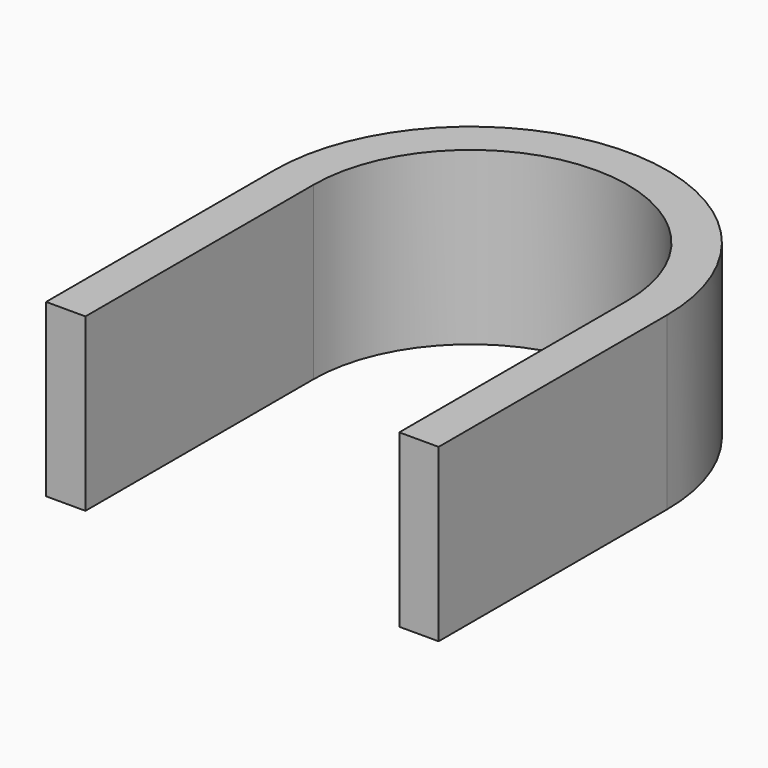
from build123d import *

# Parameters (mm, degrees)
SKETCH013_W = 1.38
SKETCH013_H = 6


with BuildPart() as part:
    # AdditivePipe004: sweep along a path in Sketch014
    with BuildLine(Plane.XY) as additivepipe004_path:
        Line((12.38, -10), (12.38, 0))
        ThreePointArc((12.38, 0), (6.88, 5.5), (1.38, 0))
        Line((1.38, 0), (1.38, -10))
    # Sketch013 → AdditivePipe004 (sweep)
    with BuildSketch(Plane.XZ):
        with Locations((0.69, 3)):
            Rectangle(SKETCH013_W, SKETCH013_H)
    sweep(path=additivepipe004_path.line)


solid = part.part
